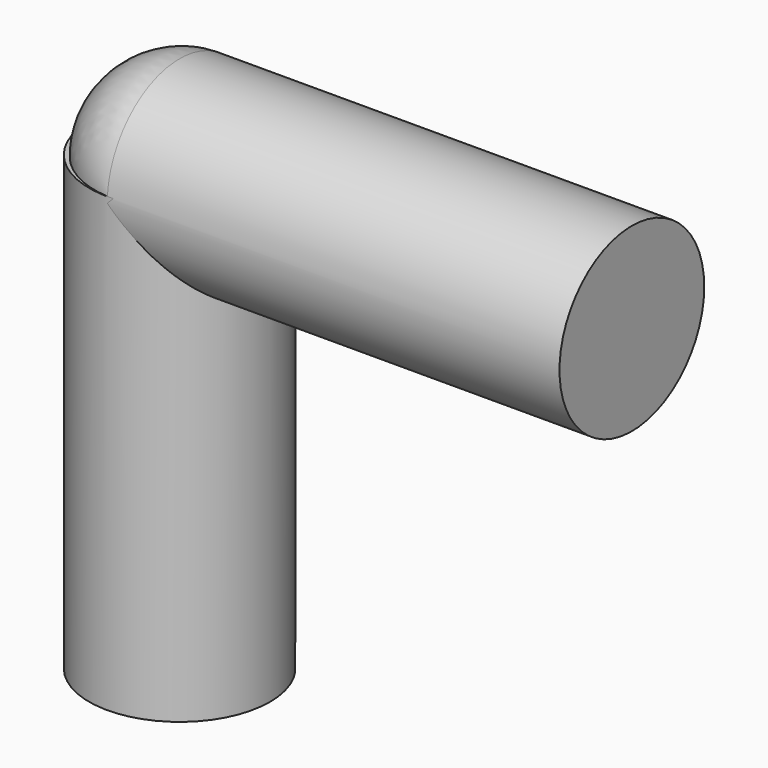
from build123d import *

# Parameters (mm, degrees)
F0_R     = 1.27
F1_DEPTH = 6.35
F2_R     = 1.27
F3_DEPTH = 6.35


with BuildPart() as f1:
    # F0 (on Top) → F1 (new body)
    with BuildSketch(Plane.XY):
        Circle(F0_R)
    extrude(amount=F1_DEPTH)

    # F2 (on Right) → F3 (join)
    with BuildSketch(Plane.YZ):
        with Locations((0, 6.266873)):
            Circle(F2_R)
    extrude(amount=F3_DEPTH)

    # F4 (on face) → F5 (revolve)
    with BuildSketch(Plane(origin=(0, 0, 0), x_dir=(0, -1, 0), z_dir=(-1, 0, 0))):
        with BuildLine():
            ThreePointArc((1.267277, 6.35), (0, 7.536873), (-1.267277, 6.35))
            Line((-1.267277, 6.35), (1.267277, 6.35))
        make_face()
    revolve(axis=Axis((0, 0, 6.35), (0, 1, 0)))

    # F4 (on face) → F6 (revolve)
    with BuildSketch(Plane(origin=(0, 0, 0), x_dir=(0, -1, 0), z_dir=(-1, 0, 0))):
        with BuildLine():
            ThreePointArc((1.267277, 6.35), (0, 7.536873), (-1.267277, 6.35))
            Line((-1.267277, 6.35), (1.267277, 6.35))
        make_face()
    revolve(axis=Axis((0, 0, 6.35), (0, 1, 0)))


solid = f1.part
